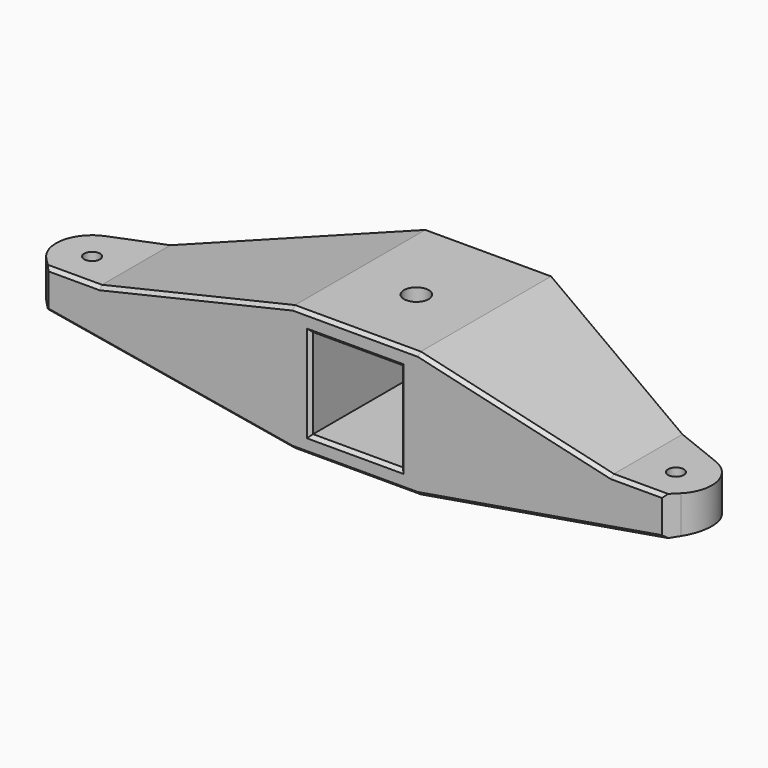
from build123d import *

# Parameters (mm, degrees)
PAD136_START         = -53
PAD136_DEPTH         = 37
SKETCH610_W          = 20
SKETCH610_H          = 20
POCKET435_DEPTH      = 90.001
POCKET435_DEPTH_BACK = 0.001
POCKET436_DEPTH      = 326.392906
POCKET436_DEPTH_BACK = 314.392906
SKETCH612_R          = 1.75
POCKET437_DEPTH      = 13.701
POCKET438_DEPTH      = 14.001
SKETCH614_R          = 2.75
POCKET439_DEPTH      = 8.001
CHAMFER023_SIZE      = 0.75


with BuildPart() as part:
    # Sketch609 → Pad136 (new body)
    with BuildSketch(Plane.XZ.offset(PAD136_START)):
        Polygon((-73, -2), (-57, -2), (-14, 8), (0, 8), (0, -20), (-14, -20), (-73, -10), align=None)
    pad136 = extrude(amount=-PAD136_DEPTH)

    # Mirrored016: Pad136 across YZ
    add(pad136.mirror(Plane.YZ))

    # Sketch610 → Pocket435 (cut, two sides)
    with BuildSketch(Plane.XZ) as pocket435_sk:
        with Locations((0, -6)):
            Rectangle(SKETCH610_W, SKETCH610_H)
    extrude(amount=-POCKET435_DEPTH, mode=Mode.SUBTRACT)
    extrude(pocket435_sk.sketch, amount=POCKET435_DEPTH_BACK, mode=Mode.SUBTRACT)

    # Sketch611 → Pocket436 (cut, two sides)
    with BuildSketch(Plane.XY) as pocket436_sk:
        with BuildLine():
            Line((-14, 90), (-80, 90))
            Line((-80, 90), (-80, 53))
            Line((-68.313708, 53), (-80, 53))
            Line((-70.656854, 55.343146), (-68.313708, 53))
            ThreePointArc((-67.969196, 68.428585), (-72.836413, 62.609545), (-70.656854, 55.343146))
            Line((-67.969196, 68.428585), (-14, 90))
        make_face()
    pocket436 = extrude(amount=-POCKET436_DEPTH, mode=Mode.SUBTRACT) + extrude(pocket436_sk.sketch, amount=POCKET436_DEPTH_BACK, mode=Mode.SUBTRACT)

    # Mirrored017: Pocket436 across YZ
    add(pocket436.mirror(Plane.YZ), mode=Mode.SUBTRACT)

    # Sketch612 → Pocket437 (cut, through all)
    with BuildSketch(Plane.XY.offset(-5.7)):
        with Locations((-65, 61)):
            Circle(SKETCH612_R)
        with Locations((65, 61)):
            Circle(SKETCH612_R)
    extrude(amount=POCKET437_DEPTH, mode=Mode.SUBTRACT)

    # Sketch613 → Pocket438 (cut, through all)
    with BuildSketch(Plane.XY.offset(-6)):
        Polygon((-62.25, 59.412287), (-62.25, 62.587713), (-65, 64.175426), (-67.75, 62.587713), (-67.75, 59.412287), (-65, 57.824574), align=None)
        Polygon((67.75, 59.412287), (67.75, 62.587713), (65, 64.175426), (62.25, 62.587713), (62.25, 59.412287), (65, 57.824574), align=None)
    extrude(amount=-POCKET438_DEPTH, mode=Mode.SUBTRACT)

    # Sketch614 → Pocket439 (cut, through all)
    with BuildSketch(Plane.XY):
        with Locations((0, 70)):
            Circle(SKETCH614_R)
    extrude(amount=POCKET439_DEPTH, mode=Mode.SUBTRACT)

    # Chamfer023
    chamfer023_edges = [part.edges().sort_by_distance(p)[0] for p in [
        (41.156854, 53, -15.397143),
        (0, 53, -20),
        (-41.156854, 53, -15.397143),
        (62.656854, 53, -2),
        (35.5, 53, 3),
        (0, 53, 8),
        (-35.5, 53, 3),
        (-62.656854, 53, -2),
        (0, 53, -16),
        (-10, 53, -6),
        (10, 53, -6),
        (0, 53, 4),
    ]]
    chamfer(chamfer023_edges, length=CHAMFER023_SIZE)


solid = part.part
